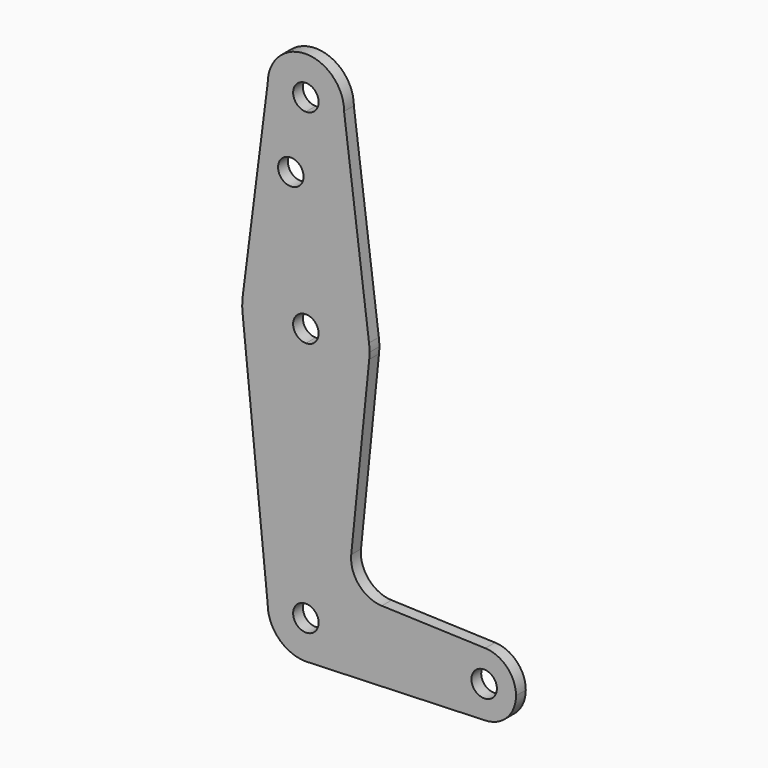
from build123d import *

# Parameters (mm, degrees)
F0_R     = 3.175
F1_DEPTH = 3.048


with BuildPart() as f1:
    # F0 (on Front) → F1 (new body)
    with BuildSketch(Plane.XZ):
        with BuildLine():
            ThreePointArc((-9.525, 114.3), (-6.7351920908, 107.5648079092), (0, 104.775))
            ThreePointArc((0, 104.775), (6.7351920908, 107.5648079092), (9.525, 114.3))
            ThreePointArc((9.525, 114.3), (0, 123.825), (-9.525, 114.3))
        make_face()
        with BuildLine():
            ThreePointArc((3.175, 114.3), (2.2450640303, 112.0549359697), (0, 111.125))
            ThreePointArc((0, 111.125), (-2.2450640303, 116.5450640303), (3.175, 114.3))
        make_face(mode=Mode.SUBTRACT)
        with BuildLine():
            ThreePointArc((9.525, 114.3), (6.7351920908, 107.5648079092), (0, 104.775))
            Line((0, 104.775), (0, 79.375))
            ThreePointArc((0, 79.375), (10.4912828548, 75.4142187767), (15.7474569047, 65.5082893304))
            Line((15.7474569047, 65.5082893304), (9.525, 114.3))
        make_face()
        with BuildLine():
            Line((0, 79.375), (0, 104.775))
            ThreePointArc((0, 104.775), (-6.7351920908, 107.5648079092), (-9.525, 114.3))
            Line((-9.525, 114.3), (-15.7474569047, 65.5082893304))
            ThreePointArc((-15.7474569047, 65.5082893304), (-10.4912828548, 75.4142187767), (0, 79.375))
        make_face()
        with Locations((-3.7565173116, 96.6927036643)):
            Circle(F0_R, mode=Mode.SUBTRACT)
        with BuildLine():
            ThreePointArc((15.7474569047, 65.5082893304), (10.4912828548, 75.4142187767), (0, 79.375))
            Line((0, 79.375), (0, 66.675))
            ThreePointArc((0, 66.675), (2.2450640303, 65.7450640303), (3.175, 63.5))
            ThreePointArc((3.175, 63.5), (2.2450640303, 61.2549359697), (0, 60.325))
            Line((0, 60.325), (0, 47.625))
            ThreePointArc((0, 47.625), (10.644756084, 51.722700101), (15.7942028036, 61.9003804205))
            ThreePointArc((15.7942028036, 61.9003804205), (15.8547878338, 62.6991705884), (15.875, 63.5))
            ThreePointArc((15.875, 63.5), (15.8430821396, 64.5061676396), (15.7474569047, 65.5082893304))
        make_face()
        with BuildLine():
            Line((0, 66.675), (0, 79.375))
            ThreePointArc((0, 79.375), (-10.4912828548, 75.4142187767), (-15.7474569047, 65.5082893304))
            ThreePointArc((-15.7474569047, 65.5082893304), (-15.873667691, 63.7056672947), (-15.7942028036, 61.9003804205))
            ThreePointArc((-15.7942028036, 61.9003804205), (-10.644756084, 51.722700101), (0, 47.625))
            Line((0, 47.625), (0, 60.325))
            ThreePointArc((0, 60.325), (-3.175, 63.5), (0, 66.675))
        make_face()
        with BuildLine():
            ThreePointArc((0, 47.625), (-10.644756084, 51.722700101), (-15.7942028036, 61.9003804205))
            Line((-15.7942028036, 61.9003804205), (-9.525, 0))
            ThreePointArc((-9.525, 0), (-6.7351920908, 6.7351920908), (0, 9.525))
            Line((0, 9.525), (0, 47.625))
        make_face()
        with BuildLine():
            ThreePointArc((15.7942028036, 61.9003804205), (10.644756084, 51.722700101), (0, 47.625))
            Line((0, 47.625), (0, 9.525))
            ThreePointArc((0, 9.525), (6.7351920908, 6.7351920908), (9.525, 0))
            Line((9.525, 0), (36.5125, 0))
            ThreePointArc((36.5125, 0), (38.9380895153, 5.7116327839), (44.7324052746, 7.9324746146))
            Line((44.7324052746, 7.9324746146), (18.9341027877, 8.850924033))
            ThreePointArc((18.9341027877, 8.850924033), (13.2249738114, 11.5709798305), (11.3072231466, 17.5971800924))
            Line((11.3072231466, 17.5971800924), (15.7942028036, 61.9003804205))
        make_face()
        with BuildLine():
            ThreePointArc((0, 9.525), (-6.7351920908, 6.7351920908), (-9.525, 0))
            ThreePointArc((-9.525, 0), (-6.7351920908, -6.7351920908), (0, -9.525))
            Line((0, -9.525), (0.6773435479, -9.500885786))
            ThreePointArc((0.6773435479, -9.500885786), (6.9705567315, -6.4912990883), (9.525, 0))
            Line((9.525, 0), (3.175, 0))
            ThreePointArc((3.175, 0), (-2.2450640303, -2.2450640303), (0, 3.175))
            Line((0, 3.175), (0, 9.525))
        make_face()
        with BuildLine():
            Line((0.6773435479, -9.500885786), (0, -9.525))
            ThreePointArc((0, -9.525), (0.3388863295, -9.5189695375), (0.6773435479, -9.500885786))
        make_face()
        with BuildLine():
            Line((36.5125, 0), (9.525, 0))
            ThreePointArc((9.525, 0), (6.9705567315, -6.4912990883), (0.6773435479, -9.500885786))
            Line((0.6773435479, -9.500885786), (44.7324052746, -7.9324746146))
            ThreePointArc((44.7324052746, -7.9324746146), (38.9380895153, -5.7116327839), (36.5125, 0))
        make_face()
        with BuildLine():
            ThreePointArc((44.7324052746, 7.9324746146), (38.9380895153, 5.7116327839), (36.5125, 0))
            ThreePointArc((36.5125, 0), (38.9380895153, -5.7116327839), (44.7324052746, -7.9324746146))
            ThreePointArc((44.7324052746, -7.9324746146), (50.1616327839, -5.5119104847), (52.3875, 0))
            ThreePointArc((52.3875, 0), (50.1616327839, 5.5119104847), (44.7324052746, 7.9324746146))
        make_face()
        with BuildLine():
            ThreePointArc((47.625, 0), (44.45, -3.175), (41.275, 0))
            ThreePointArc((41.275, 0), (44.45, 3.175), (47.625, 0))
        make_face(mode=Mode.SUBTRACT)
        with BuildLine():
            ThreePointArc((9.525, 0), (6.7351920908, 6.7351920908), (0, 9.525))
            Line((0, 9.525), (0, 3.175))
            ThreePointArc((0, 3.175), (2.2450640303, 2.2450640303), (3.175, 0))
            Line((3.175, 0), (9.525, 0))
        make_face()
    extrude(amount=F1_DEPTH)


solid = f1.part
